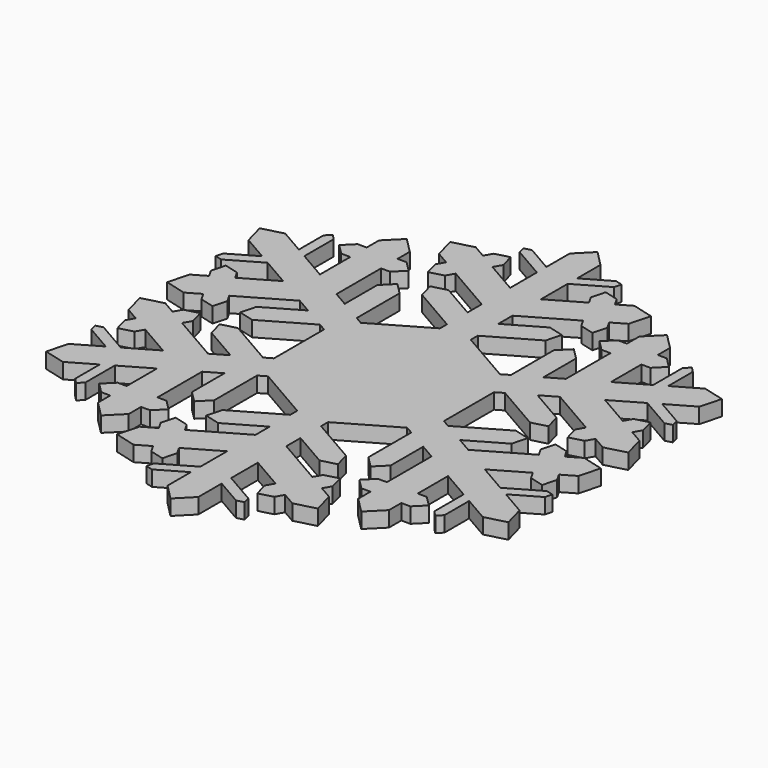
from build123d import *

# Parameters (mm, degrees)
F1_DEPTH = 1.5
F2_SCALE = 2


with BuildPart() as f1:
    # F0 (on Top) → F1 (new body)
    with BuildSketch(Plane.XY):
        Polygon((-1.5, 9.5402926019), (-1.5, 8.6902950921), (0, 9.5563204959), (1.5, 8.6902950921), (1.5, 9.5402926019), (6.0205552727, 12.1502364054), (6.4172358348, 13.6306684175), (4.9368038227, 14.0273489796), (1.5, 12.0431093675), (1.5, 13.7700552477), (6.2021380864, 16.4848359376), (6.6431549633, 15.7209722997), (8.0091803671, 15.354946896), (8.3752057709, 16.7209722997), (7.934188894, 17.4848359376), (9.2332269996, 18.2348359376), (9.7822651053, 20.2838740433), (7.7332269996, 20.832912149), (6.434188894, 20.082912149), (5.993172017, 20.8467757868), (4.6271466132, 21.2128011906), (4.2611212094, 19.8467757868), (4.7021380864, 19.082912149), (1.5, 17.2341568628), (1.5, 20.485915186), (4.5980762114, 22.2745903206), (4.7810889132, 22.9576030225), (4.0980762114, 23.1406157243), (1.5, 21.6406157243), (1.5, 24.480696004), (0, 26), (-1.5, 24.480696004), (-1.5, 21.6406157243), (-4.0980762114, 23.1406157243), (-4.7810889132, 22.9576030225), (-4.5980762114, 22.2745903206), (-1.5, 20.485915186), (-1.5, 17.2341568628), (-4.7021380864, 19.082912149), (-4.2611212094, 19.8467757868), (-4.6271466132, 21.2128011906), (-5.993172017, 20.8467757868), (-6.434188894, 20.082912149), (-7.7332269996, 20.832912149), (-9.7822651053, 20.2838740433), (-9.2332269996, 18.2348359376), (-7.934188894, 17.4848359376), (-8.3752057709, 16.7209722997), (-8.0091803671, 15.354946896), (-6.6431549633, 15.7209722997), (-6.2021380864, 16.4848359376), (-1.5, 13.7700552477), (-1.5, 12.0431093675), (-4.9368038227, 14.0273489796), (-6.4172358348, 13.6306684175), (-6.0205552727, 12.1502364054), align=None)
        Polygon((0, 9.5563204959), (-1.5, 8.6902950921), (-6.7760163162, 5.6441856517), (-8.2760163162, 4.778160248), (-8.2760163162, 3.0461094404), (-8.2760163162, -3.0461094404), (-8.2760163162, -4.778160248), (-6.7760163162, -5.6441856517), (-1.5, -8.6902950921), (0, -9.5563204959), (1.5, -8.6902950921), (6.7760163162, -5.6441856517), (8.2760163162, -4.778160248), (8.2760163162, -3.0461094404), (8.2760163162, 3.0461094404), (8.2760163162, 4.778160248), (6.7760163162, 5.6441856517), (1.5, 8.6902950921), align=None)
        Polygon((-8.2760163162, 4.778160248), (-6.7760163162, 5.6441856517), (-7.5121357527, 6.0691844066), (-7.5121357527, 11.2890720138), (-8.5958872028, 12.3728234638), (-9.6796386528, 11.2890720138), (-9.6796386528, 7.3205927894), (-11.175217656, 8.1840657295), (-11.175217656, 13.6136271094), (-10.2931839021, 13.6136271094), (-9.2931839021, 14.6136271094), (-10.2931839021, 15.6136271094), (-11.175217656, 15.6136271094), (-11.175217656, 17.1136271094), (-12.675217656, 18.6136271094), (-14.175217656, 17.1136271094), (-14.175217656, 15.6136271094), (-15.0572514099, 15.6136271094), (-16.0572514099, 14.6136271094), (-15.0572514099, 13.6136271094), (-14.175217656, 13.6136271094), (-14.175217656, 9.9161165371), (-16.9913229708, 11.5419956987), (-16.9913229708, 15.1193459679), (-17.4913229708, 15.6193459679), (-17.9913229708, 15.1193459679), (-17.9913229708, 12.1193459679), (-20.4509046418, 13.5393861077), (-22.5166604984, 13), (-21.9509046418, 10.9413098963), (-19.4913229708, 9.5212697565), (-22.0893991822, 8.0212697565), (-22.2724118841, 7.3382570546), (-21.5893991822, 7.1552443527), (-18.4913229708, 8.9439194873), (-15.675217656, 7.3180403257), (-18.8773557424, 5.4692850396), (-19.3183726193, 6.2331486774), (-20.6843980231, 6.5991740812), (-21.0504234269, 5.2331486774), (-20.60940655, 4.4692850396), (-21.9084446556, 3.7192850396), (-22.4574827613, 1.6702469339), (-20.4084446556, 1.1212088282), (-19.10940655, 1.8712088282), (-18.668389673, 1.1073451903), (-17.3023642692, 0.7413197866), (-16.9363388654, 2.1073451903), (-17.3773557424, 2.8712088282), (-12.675217656, 5.5859895182), (-11.1796386528, 4.7225165781), (-14.6164424755, 2.7382769659), (-15.0131230376, 1.2578449538), (-13.5326910254, 0.8611643917), (-9.0121357527, 3.4711081952), (-8.2760163162, 3.0461094404), align=None)
        Polygon((7.5121357527, 6.0691844066), (6.7760163162, 5.6441856517), (8.2760163162, 4.778160248), (8.2760163162, 3.0461094404), (9.0121357527, 3.4711081952), (13.5326910254, 0.8611643917), (15.0131230376, 1.2578449538), (14.6164424755, 2.7382769659), (11.1796386528, 4.7225165781), (12.675217656, 5.5859895182), (17.3773557424, 2.8712088282), (16.9363388654, 2.1073451903), (17.3023642692, 0.7413197866), (18.668389673, 1.1073451903), (19.10940655, 1.8712088282), (20.4084446556, 1.1212088282), (22.4574827613, 1.6702469339), (21.9084446556, 3.7192850396), (20.60940655, 4.4692850396), (21.0504234269, 5.2331486774), (20.6843980231, 6.5991740812), (19.3183726193, 6.2331486774), (18.8773557424, 5.4692850396), (15.675217656, 7.3180403257), (18.4913229708, 8.9439194873), (21.5893991822, 7.1552443527), (22.2724118841, 7.3382570546), (22.0893991822, 8.0212697565), (19.4913229708, 9.5212697565), (21.9509046418, 10.9413098963), (22.5166604984, 13), (20.4509046418, 13.5393861077), (17.9913229708, 12.1193459679), (17.9913229708, 15.1193459679), (17.4913229708, 15.6193459679), (16.9913229708, 15.1193459679), (16.9913229708, 11.5419956987), (14.175217656, 9.9161165371), (14.175217656, 13.6136271094), (15.0572514099, 13.6136271094), (16.0572514099, 14.6136271094), (15.0572514099, 15.6136271094), (14.175217656, 15.6136271094), (14.175217656, 17.1136271094), (12.675217656, 18.6136271094), (11.175217656, 17.1136271094), (11.175217656, 15.6136271094), (10.2931839021, 15.6136271094), (9.2931839021, 14.6136271094), (10.2931839021, 13.6136271094), (11.175217656, 13.6136271094), (11.175217656, 8.1840657295), (9.6796386528, 7.3205927894), (9.6796386528, 11.2890720138), (8.5958872028, 12.3728234638), (7.5121357527, 11.2890720138), align=None)
        Polygon((-8.2760163162, -4.778160248), (-8.2760163162, -3.0461094404), (-9.0121357527, -3.4711081952), (-13.5326910254, -0.8611643917), (-15.0131230376, -1.2578449538), (-14.6164424755, -2.7382769659), (-11.1796386528, -4.7225165781), (-12.675217656, -5.5859895182), (-17.3773557424, -2.8712088282), (-16.9363388654, -2.1073451903), (-17.3023642692, -0.7413197866), (-18.668389673, -1.1073451903), (-19.10940655, -1.8712088282), (-20.4084446556, -1.1212088282), (-22.4574827613, -1.6702469339), (-21.9084446556, -3.7192850396), (-20.60940655, -4.4692850396), (-21.0504234269, -5.2331486774), (-20.6843980231, -6.5991740812), (-19.3183726193, -6.2331486774), (-18.8773557424, -5.4692850396), (-15.675217656, -7.3180403257), (-18.4913229708, -8.9439194873), (-21.5893991822, -7.1552443527), (-22.2724118841, -7.3382570546), (-22.0893991822, -8.0212697565), (-19.4913229708, -9.5212697565), (-21.9509046418, -10.9413098963), (-22.5166604984, -13), (-20.4509046418, -13.5393861077), (-17.9913229708, -12.1193459679), (-17.9913229708, -15.1193459679), (-17.4913229708, -15.6193459679), (-16.9913229708, -15.1193459679), (-16.9913229708, -11.5419956987), (-14.175217656, -9.9161165371), (-14.175217656, -13.6136271094), (-15.0572514099, -13.6136271094), (-16.0572514099, -14.6136271094), (-15.0572514099, -15.6136271094), (-14.175217656, -15.6136271094), (-14.175217656, -17.1136271094), (-12.675217656, -18.6136271094), (-11.175217656, -17.1136271094), (-11.175217656, -15.6136271094), (-10.2931839021, -15.6136271094), (-9.2931839021, -14.6136271094), (-10.2931839021, -13.6136271094), (-11.175217656, -13.6136271094), (-11.175217656, -8.1840657295), (-9.6796386528, -7.3205927894), (-9.6796386528, -11.2890720138), (-8.5958872028, -12.3728234638), (-7.5121357527, -11.2890720138), (-7.5121357527, -6.0691844066), (-6.7760163162, -5.6441856517), align=None)
        Polygon((9.0121357527, -3.4711081952), (8.2760163162, -3.0461094404), (8.2760163162, -4.778160248), (6.7760163162, -5.6441856517), (7.5121357527, -6.0691844066), (7.5121357527, -11.2890720138), (8.5958872028, -12.3728234638), (9.6796386528, -11.2890720138), (9.6796386528, -7.3205927894), (11.175217656, -8.1840657295), (11.175217656, -13.6136271094), (10.2931839021, -13.6136271094), (9.2931839021, -14.6136271094), (10.2931839021, -15.6136271094), (11.175217656, -15.6136271094), (11.175217656, -17.1136271094), (12.675217656, -18.6136271094), (14.175217656, -17.1136271094), (14.175217656, -15.6136271094), (15.0572514099, -15.6136271094), (16.0572514099, -14.6136271094), (15.0572514099, -13.6136271094), (14.175217656, -13.6136271094), (14.175217656, -9.9161165371), (16.9913229708, -11.5419956987), (16.9913229708, -15.1193459679), (17.4913229708, -15.6193459679), (17.9913229708, -15.1193459679), (17.9913229708, -12.1193459679), (20.4509046418, -13.5393861077), (22.5166604984, -13), (21.9509046418, -10.9413098963), (19.4913229708, -9.5212697565), (22.0893991822, -8.0212697565), (22.2724118841, -7.3382570546), (21.5893991822, -7.1552443527), (18.4913229708, -8.9439194873), (15.675217656, -7.3180403257), (18.8773557424, -5.4692850396), (19.3183726193, -6.2331486774), (20.6843980231, -6.5991740812), (21.0504234269, -5.2331486774), (20.60940655, -4.4692850396), (21.9084446556, -3.7192850396), (22.4574827613, -1.6702469339), (20.4084446556, -1.1212088282), (19.10940655, -1.8712088282), (18.668389673, -1.1073451903), (17.3023642692, -0.7413197866), (16.9363388654, -2.1073451903), (17.3773557424, -2.8712088282), (12.675217656, -5.5859895182), (11.1796386528, -4.7225165781), (14.6164424755, -2.7382769659), (15.0131230376, -1.2578449538), (13.5326910254, -0.8611643917), align=None)
        Polygon((0, -9.5563204959), (-1.5, -8.6902950921), (-1.5, -9.5402926019), (-6.0205552727, -12.1502364054), (-6.4172358348, -13.6306684175), (-4.9368038227, -14.0273489796), (-1.5, -12.0431093675), (-1.5, -13.7700552477), (-6.2021380864, -16.4848359376), (-6.6431549633, -15.7209722997), (-8.0091803671, -15.354946896), (-8.3752057709, -16.7209722997), (-7.934188894, -17.4848359376), (-9.2332269996, -18.2348359376), (-9.7822651053, -20.2838740433), (-7.7332269996, -20.832912149), (-6.434188894, -20.082912149), (-5.993172017, -20.8467757868), (-4.6271466132, -21.2128011906), (-4.2611212094, -19.8467757868), (-4.7021380864, -19.082912149), (-1.5, -17.2341568628), (-1.5, -20.485915186), (-4.5980762114, -22.2745903206), (-4.7810889132, -22.9576030225), (-4.0980762114, -23.1406157243), (-1.5, -21.6406157243), (-1.5, -24.480696004), (0, -26), (1.5, -24.480696004), (1.5, -21.6406157243), (4.0980762114, -23.1406157243), (4.7810889132, -22.9576030225), (4.5980762114, -22.2745903206), (1.5, -20.485915186), (1.5, -17.2341568628), (4.7021380864, -19.082912149), (4.2611212094, -19.8467757868), (4.6271466132, -21.2128011906), (5.993172017, -20.8467757868), (6.434188894, -20.082912149), (7.7332269996, -20.832912149), (9.7822651053, -20.2838740433), (9.2332269996, -18.2348359376), (7.934188894, -17.4848359376), (8.3752057709, -16.7209722997), (8.0091803671, -15.354946896), (6.6431549633, -15.7209722997), (6.2021380864, -16.4848359376), (1.5, -13.7700552477), (1.5, -12.0431093675), (4.9368038227, -14.0273489796), (6.4172358348, -13.6306684175), (6.0205552727, -12.1502364054), (1.5, -9.5402926019), (1.5, -8.6902950921), align=None)
    extrude(amount=F1_DEPTH)


with BuildPart() as f1_1:
    # F2: moved
    add(f1.part.scale(F2_SCALE))


solid = f1_1.part
